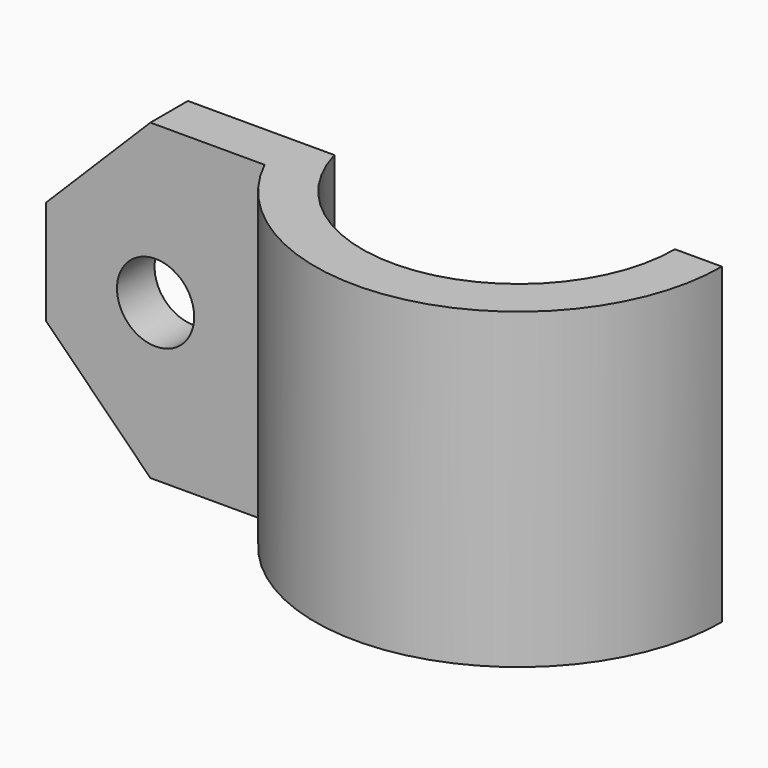
from build123d import *

# Parameters (mm, degrees)
SKETCH016_R       = 1.85
EXTRUDE013_DEPTH  = 12
CYLINDER007_R     = 5
CYLINDER007_DEPTH = 1
EXTRUDE012_DEPTH  = 15


with BuildPart() as extrude013:
    # Sketch016 → Extrude013 (new body)
    with BuildSketch(Plane.XZ):
        Polygon((11.75, 36), (11.75, 19), (-13.25, 19), (-19.25, 25), (-19.25, 30), (-13.25, 36), align=None)
        with Locations((-14, 27.481564)):
            Circle(SKETCH016_R, mode=Mode.SUBTRACT)
    extrude(amount=-EXTRUDE013_DEPTH)


with BuildPart() as unprintable:
    # Cylinder007 → Cylinder007 (new body)
    with BuildSketch(Plane(origin=(-14, 18, 27.5), x_dir=(1, 0, 0), z_dir=(0, -1, 0))):
        Circle(CYLINDER007_R)
    extrude(amount=CYLINDER007_DEPTH)


with BuildPart() as body007:
    # Sketch015 → Extrude012 (new body)
    with BuildSketch(Plane.XY.offset(50)):
        with BuildLine():
            ThreePointArc((7.5, 0), (1.009178, 7.431794), (-7.228416, 2))
            Line((-7.228416, 2), (-21.228416, 2))
            Line((-21.228416, 4.25), (-21.228416, 2))
            Line((-8.774964, 4.25), (-21.228416, 4.25))
            ThreePointArc((9.75, 0), (2.180206, 9.503115), (-8.774964, 4.25))
            Line((7.5, 0), (9.75, 0))
        make_face()
    extrude(amount=EXTRUDE012_DEPTH)


with BuildPart() as body007_1:
    # Extrude012 placement: moved
    add(body007.part.moved(Location((0, 0, -30))))

    # Fusion016: union unprintable
    add(unprintable.part)

    # Common001: intersect Extrude013
    add(extrude013.part, mode=Mode.INTERSECT)


with BuildPart() as body007_2:
    # Common001 placement: moved
    add(body007_1.part.moved(Location((1.5, 0, 0))))


with BuildPart() as body007_3:
    # Clone007 placement: moved
    add(body007_2.part.moved(Location((-1.5, 0, 0))))


with BuildPart() as part_mirroring008:
    # Part__Mirroring008: instance of Body007
    add(body007_3.part.mirror(Plane(origin=(0, 0, 0), x_dir=(1, 0, 0), z_dir=(0, 1, 0))))


with BuildPart() as part_mirroring008_1:
    # Part__Mirroring008 placement: moved
    add(part_mirroring008.part.moved(Location((1.5, 0, 0))))


solid = part_mirroring008_1.part
